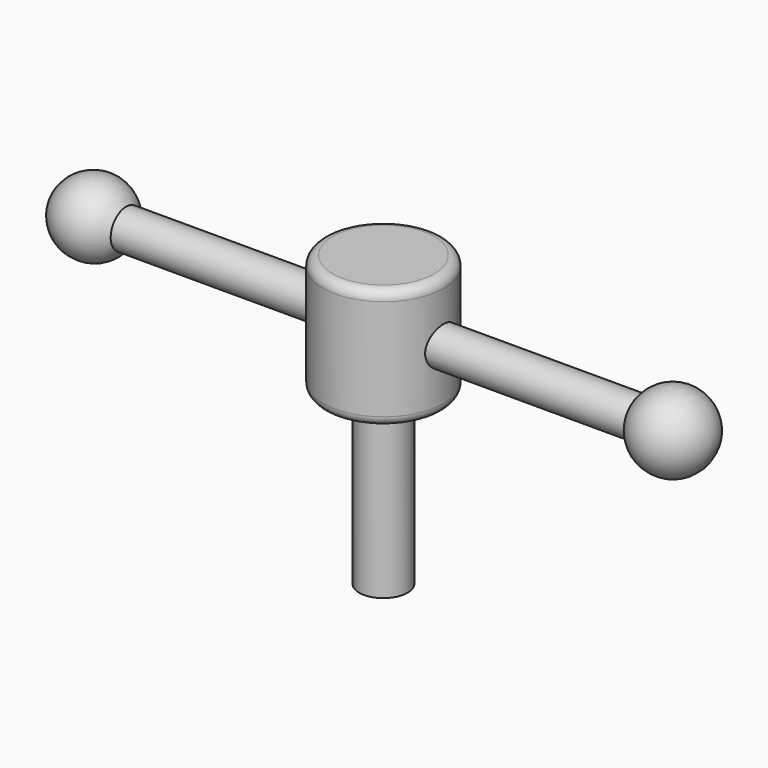
from build123d import *

# Parameters (mm, degrees)
F0_R     = 6.35
F1_DEPTH = 44.45
F2_R     = 15.875
F2_R_2   = 6.35
F3_DEPTH = 31.75
F4_R     = 2.54
F6_DEPTH = 76.2


with BuildPart() as f1:
    # F0 (on Top) → F1 (new body)
    with BuildSketch(Plane.XY):
        Circle(F0_R)
    extrude(amount=F1_DEPTH)

    # F2 (on face) → F3 (join)
    with BuildSketch(Plane.XY.offset(44.45)):
        Circle(F2_R)
        Circle(F2_R_2, mode=Mode.SUBTRACT)
        Circle(F2_R_2)
    extrude(amount=F3_DEPTH)

    # F4
    f4_edges = [f1.edges().sort_by_distance(p)[0] for p in [
        (-15.875, 0, 76.2),
        (-15.875, 0, 44.45),
    ]]
    fillet(f4_edges, radius=F4_R)

    # F5 (on Right) → F6 (join, symmetric)
    with BuildSketch(Plane.YZ):
        with BuildLine():
            ThreePointArc((0, 55.245), (3.5921024484, 56.7328975516), (5.08, 60.325))
            ThreePointArc((5.08, 60.325), (-3.5921024484, 63.9171024484), (0, 55.245))
        make_face()
    extrude(amount=F6_DEPTH, both=True)

    # F7 (on Front) → F8 (revolve)
    with BuildSketch(Plane.XZ):
        with BuildLine():
            ThreePointArc((86.3594083691, 60.325), (76.1997041846, 70.4074701198), (66.04, 60.325))
            Line((66.04, 60.325), (86.3594083691, 60.325))
        make_face()
    revolve(axis=Axis((76.1997041846, 0, 60.325), (1, 0, 0)))

    # F7 (on Front) → F9 (revolve)
    with BuildSketch(Plane.XZ):
        with BuildLine():
            Line((-86.36, 60.325), (-66.0663464859, 60.325))
            ThreePointArc((-66.0663464859, 60.325), (-76.2131732429, 69.9677894414), (-86.36, 60.325))
        make_face()
    revolve(axis=Axis((-76.2131732429, 0, 60.325), (-1, 0, 0)))


solid = f1.part
